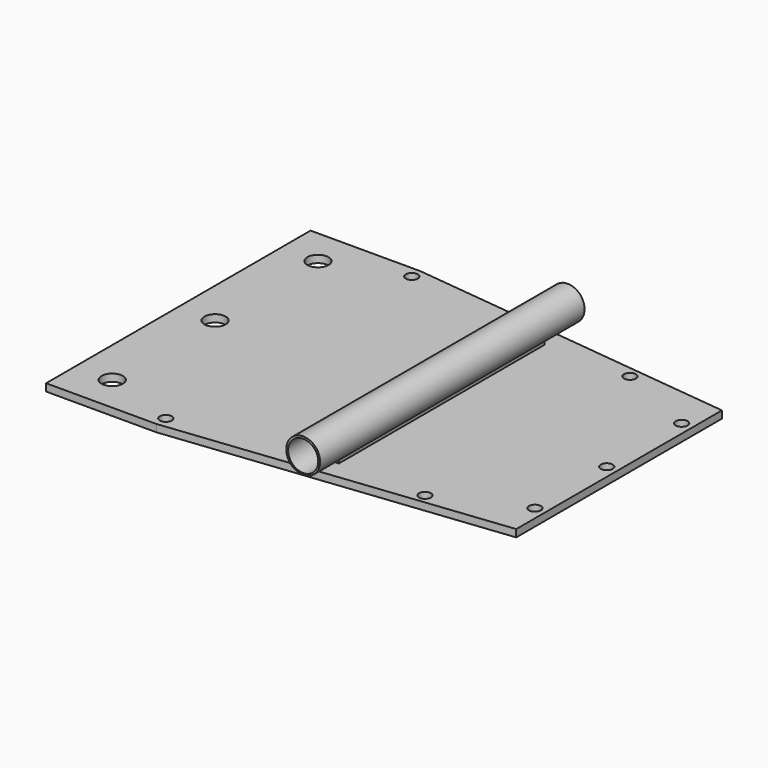
from build123d import *

# Parameters (mm, degrees)
SKETCH013_R      = 4.103857
EXTRUDE012_DEPTH = 120
SKETCH012_R      = 4.612338
EXTRUDE011_DEPTH = 90
SKETCH031_W      = 3.449714
SKETCH031_H      = 1.767909
EXTRUDE033_DEPTH = 70
SKETCH174_R      = 1.623797
EXTRUDE193_DEPTH = 10
SKETCH176_R      = 2.9
EXTRUDE005_DEPTH = 50
EXTRUDE002_DEPTH = 2


with BuildPart() as extrude012:
    # Sketch013 → Extrude012 (new body)
    with BuildSketch(Plane.XZ):
        with Locations((70, 3.549289)):
            Circle(SKETCH013_R)
    extrude(amount=EXTRUDE012_DEPTH)


with BuildPart() as extrude012_1:
    # Extrude012 placement: moved
    add(extrude012.part.moved(Location((0, 105, 0))))


with BuildPart() as tubo:
    # Sketch012 → Extrude011 (new body)
    with BuildSketch(Plane.XZ):
        with Locations((70, 3.62)):
            Circle(SKETCH012_R)
    extrude(amount=EXTRUDE011_DEPTH)


with BuildPart() as tubo_1:
    # Extrude011 placement: moved
    add(tubo.part.moved(Location((0, 90, 0))))

    # Cut004: cut Extrude012
    add(extrude012_1.part, mode=Mode.SUBTRACT)


with BuildPart() as fusion066:
    # Sketch031 → Extrude033 (new body)
    with BuildSketch(Plane.XZ):
        with Locations((69.96706, -1.473137)):
            Rectangle(SKETCH031_W, SKETCH031_H)
    extrude(amount=EXTRUDE033_DEPTH)


with BuildPart() as fusion066_1:
    # Extrude033 placement: moved
    add(fusion066.part.moved(Location((0, 80, 0))))

    # Fusion066: union Tubo
    add(tubo_1.part)


with BuildPart() as fusion066_2:
    # Fusion066 placement: moved
    add(fusion066_1.part.moved(Location((0, 0, -8.2))))


with BuildPart() as extrude193:
    # Sketch174 (on Face4 of Cut014) → Extrude193 (new body)
    with BuildSketch(Plane.XY.offset(12.1)):
        with Locations((30, 86.963425)):
            Circle(SKETCH174_R)
        with Locations((30, 3.252438)):
            Circle(SKETCH174_R)
        with Locations((95.163345, 10)):
            Circle(SKETCH174_R)
        with Locations((94.949776, 80)):
            Circle(SKETCH174_R)
        with Locations((117.10096, 20)):
            Circle(SKETCH174_R)
        with Locations((117.030609, 70)):
            Circle(SKETCH174_R)
        with Locations((117.10096, 44.443623)):
            Circle(SKETCH174_R)
    extrude(amount=EXTRUDE193_DEPTH)


with BuildPart() as extrude193_1:
    # Extrude193 placement: moved
    add(extrude193.part.moved(Location((0, 0, -27.7))))


with BuildPart() as tornillos002:
    # Sketch176 (on Face8 of Extrude002) → Extrude005 (new body)
    with BuildSketch(Plane.XY.offset(2)):
        with Locations((10, 80.016689)):
            Circle(SKETCH176_R)
        with Locations((10, 45.008344)):
            Circle(SKETCH176_R)
        with Locations((10, 10)):
            Circle(SKETCH176_R)
    extrude(amount=EXTRUDE005_DEPTH)


with BuildPart() as tornillos002_1:
    # Extrude005 placement: moved
    add(tornillos002.part.moved(Location((0, 0, -21))))


with BuildPart() as base:
    # Sketch175 → Extrude002 (new body)
    with BuildSketch(Plane.XY):
        Polygon((0, 0), (30, 0), (120, 10), (120, 80), (30, 90), (0, 90), align=None)
    extrude(amount=EXTRUDE002_DEPTH)

    # Cut002: cut Tornillos002
    add(tornillos002_1.part, mode=Mode.SUBTRACT)


with BuildPart() as base_1:
    # Cut002 placement: moved
    add(base.part.moved(Location((0, 0, -12))))

    # Cut122: cut Extrude193
    add(extrude193_1.part, mode=Mode.SUBTRACT)

    # Fusion065: union Fusion066
    add(fusion066_2.part)


with BuildPart() as base_2:
    # Fusion065 placement: moved
    add(base_1.part.moved(Location((0, 0, 15.3))))


solid = base_2.part
